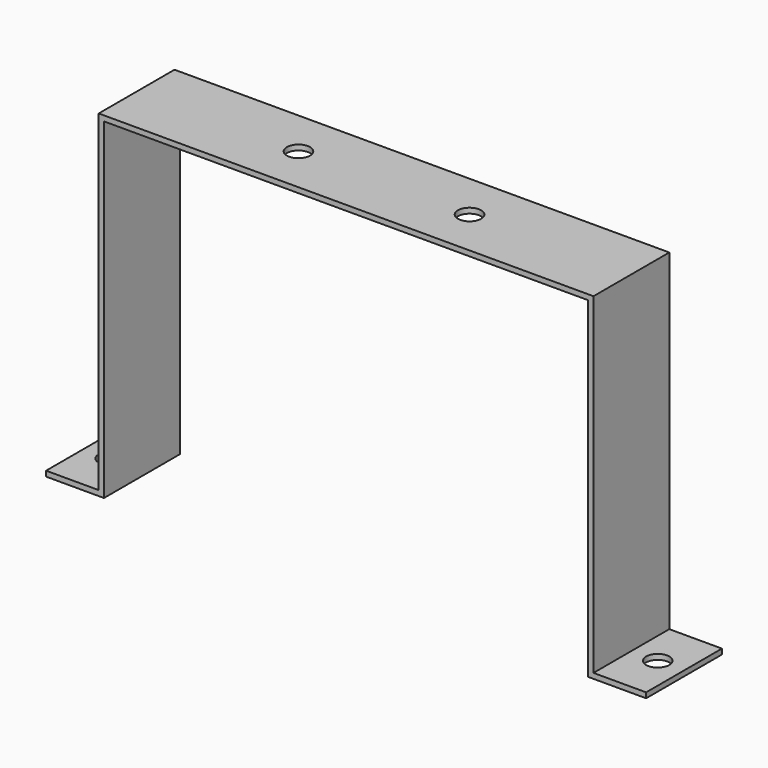
from build123d import *

# Parameters (mm, degrees)
F1_DEPTH   = 18
F5_D       = 8.8
F5_ON_F4_D = 8.8
F5_ON_F3_D = 8.8


with BuildPart() as f1:
    # F0 (on Front) → F1 (new body, symmetric)
    with BuildSketch(Plane.XZ):
        Polygon((94, -63), (94, 63), (-94, 63), (-94, -63), (-114, -63), (-114, -65), (-92, -65), (-92, 61), (92, 61), (92, -65), (114, -65), (114, -63), align=None)
    extrude(amount=F1_DEPTH, both=True)

    # F5 (through all)
    with Locations(Plane.XY.offset(63)):
        with Locations((-32.5, 0), (32.5, 0)):
            Hole(F5_D / 2)

    # F5 on F4 (through all)
    with Locations(Plane.XY.offset(-63)):
        with Locations((104, 0)):
            Hole(F5_ON_F4_D / 2)

    # F5 on F3 (through all)
    with Locations(Plane.XY.offset(-63)):
        with Locations((-104, 0)):
            Hole(F5_ON_F3_D / 2)


solid = f1.part
